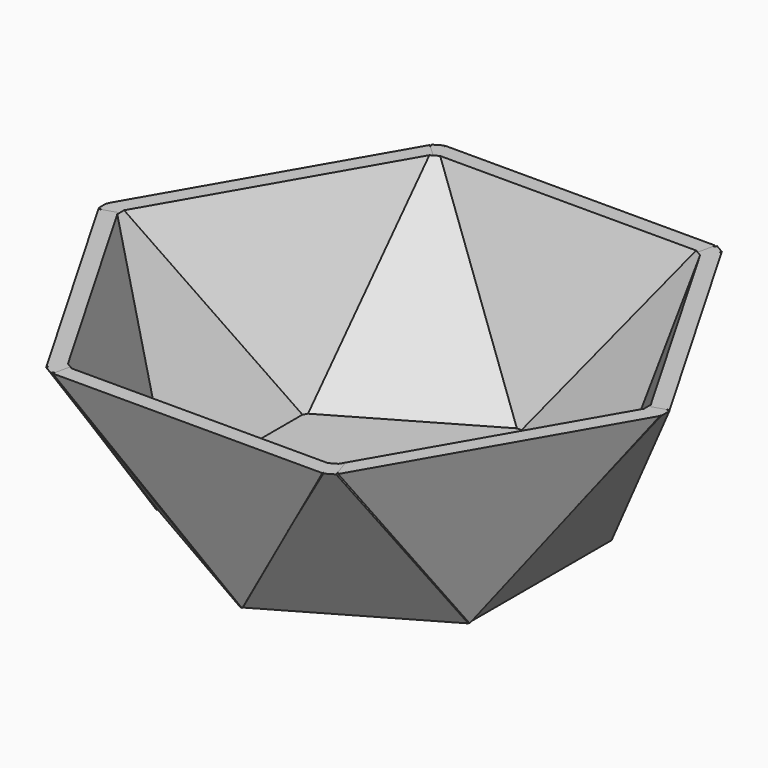
from build123d import *

# Parameters (mm, degrees)
F6_DEPTH  = 3
F9_DEPTH  = 3
F10_COUNT = 6
F11_DEPTH = 3
F12_W     = 117.9919689894
F12_H     = 11.6260461509
F13_DEPTH = 60


with BuildPart() as f6:
    # F5 (on 3pt) → F6 (new body)
    with BuildSketch(Plane(origin=(21.5794067589, 0, -14.3542840713), x_dir=(0, 1, 0), z_dir=(0.8326194817, 0, -0.5538454647))):
        Polygon((18.0565174669, 17.1892922372), (0, 65.3814077377), (-17.9537590593, 17.1892922372), align=None)
    extrude(amount=-F6_DEPTH)

    # F8 (on 3pt) → F9 (join)
    with BuildSketch(Plane(origin=(27.7060275662, -15.9960824735, -11.2427532294), x_dir=(0.4371029691, 0.8817485961, -0.1773708196), z_dir=(0.8170423732, -0.4717196341, -0.3315453923))):
        Polygon((18.2439256459, 59.6142485738), (-38.4245254099, 48.2348278165), (-1.8889650237, 11.6593157873), align=None)
    extrude(amount=-F9_DEPTH)


with BuildPart() as f10_1:
    # F10: instance of F6
    add(f6.part.rotate(Axis((0, 0, 21.5341579169), (0, 0, 1)), 1 * 360 / F10_COUNT))


with BuildPart() as f10_2:
    # F10: instance of F6
    add(f6.part.rotate(Axis((0, 0, 21.5341579169), (0, 0, 1)), 2 * 360 / F10_COUNT))


with BuildPart() as f10_3:
    # F10: instance of F6
    add(f6.part.rotate(Axis((0, 0, 21.5341579169), (0, 0, 1)), 3 * 360 / F10_COUNT))


with BuildPart() as f10_4:
    # F10: instance of F6
    add(f6.part.rotate(Axis((0, 0, 21.5341579169), (0, 0, 1)), 4 * 360 / F10_COUNT))


with BuildPart() as f10_5:
    # F10: instance of F6
    add(f6.part.rotate(Axis((0, 0, 21.5341579169), (0, 0, 1)), 5 * 360 / F10_COUNT))


with BuildPart() as f11:
    # F2 (on Top) → F11 (new body)
    with BuildSketch(Plane.XY):
        Polygon((31.1276521534, -17.97155835), (31.1276521534, 17.97155835), (0, 35.9431167), (-31.1276521534, 17.97155835), (-31.1276521534, -17.97155835), (0, -35.9431167), align=None)
    extrude(amount=F11_DEPTH)


with BuildPart() as f13_tool:
    # F12 (on Right) → F13 (new body, symmetric)
    with BuildSketch(Plane.YZ):
        with Locations((-2.3104958236, 43.6490196735)):
            Rectangle(F12_W, F12_H)
    extrude(amount=F13_DEPTH, both=True)


with BuildPart() as f6_1:
    add(f6.part)

    # F13: cut by f13_tool
    add(f13_tool.part, mode=Mode.SUBTRACT)


with BuildPart() as f10_1_1:
    add(f10_1.part)

    # F13: cut by f13_tool
    add(f13_tool.part, mode=Mode.SUBTRACT)


with BuildPart() as f10_2_1:
    add(f10_2.part)

    # F13: cut by f13_tool
    add(f13_tool.part, mode=Mode.SUBTRACT)


with BuildPart() as f10_3_1:
    add(f10_3.part)

    # F13: cut by f13_tool
    add(f13_tool.part, mode=Mode.SUBTRACT)


with BuildPart() as f10_4_1:
    add(f10_4.part)

    # F13: cut by f13_tool
    add(f13_tool.part, mode=Mode.SUBTRACT)


with BuildPart() as f10_5_1:
    add(f10_5.part)

    # F13: cut by f13_tool
    add(f13_tool.part, mode=Mode.SUBTRACT)


solid = Compound([f11.part, f6_1.part, f10_1_1.part, f10_2_1.part, f10_3_1.part, f10_4_1.part, f10_5_1.part])
